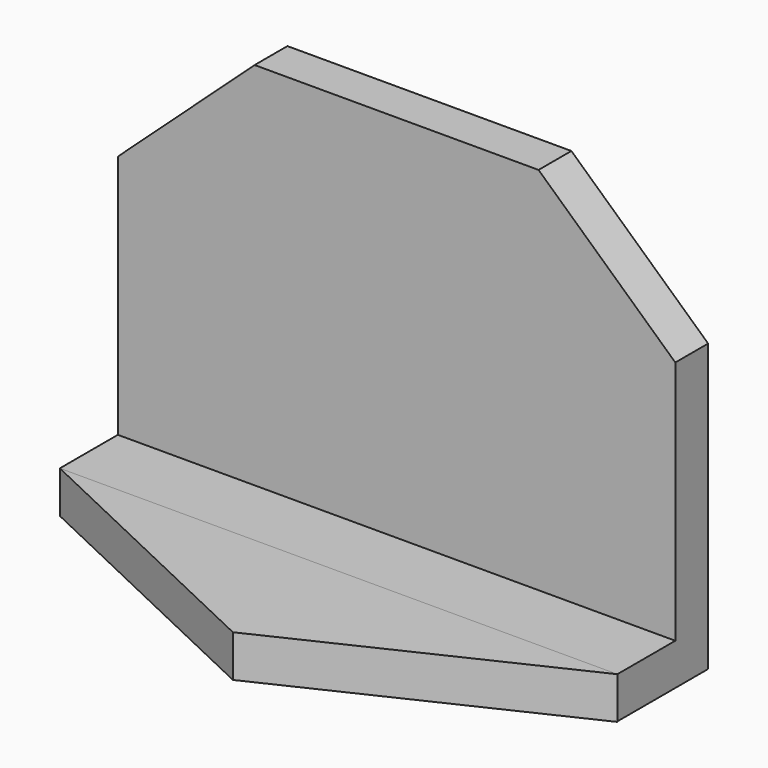
from build123d import *

# Parameters (mm, degrees)
F0_W     = 124.7514784336
F0_H     = 92.106230557
F1_DEPTH = 25.4
F2_W     = 124.7514784336
F2_H     = 16.2185247332
F3_DEPTH = 82.804
F5_DEPTH = 25.4
F7_DEPTH = 9.398


with BuildPart() as f1:
    # F0 (on Front) → F1 (new body)
    with BuildSketch(Plane.XZ):
        with Locations((0, -0.4372149706)):
            Rectangle(F0_W, F0_H)
    extrude(amount=F1_DEPTH)

    # F2 (on face) → F3 (cut)
    with BuildSketch(Plane.XY.offset(45.6159003079)):
        with Locations((0, -17.2907376334)):
            Rectangle(F2_W, F2_H)
    extrude(amount=-F3_DEPTH, mode=Mode.SUBTRACT)

    # F4 (on face) → F5 (cut)
    with BuildSketch(Plane.XZ.offset(9.1814752668)):
        Polygon((62.3757392168, 45.6159003079), (31.7708179355, 45.6159003079), (62.3757392168, 17.6342632622), align=None)
        Polygon((-62.3757392168, 17.6342632622), (-31.7708179355, 45.6159003079), (-62.3757392168, 45.6159003079), align=None)
    extrude(amount=-F5_DEPTH, mode=Mode.SUBTRACT)


with BuildPart() as f7:
    # F6 (on face) → F7 (new body)
    with BuildSketch(Plane.XY.offset(-37.1880996921)):
        Polygon((62.3757392168, -25.4), (-62.3757392168, -25.4), (0, -54.9593754113), align=None)
    extrude(amount=-F7_DEPTH)


solid = Compound([f1.part, f7.part])
